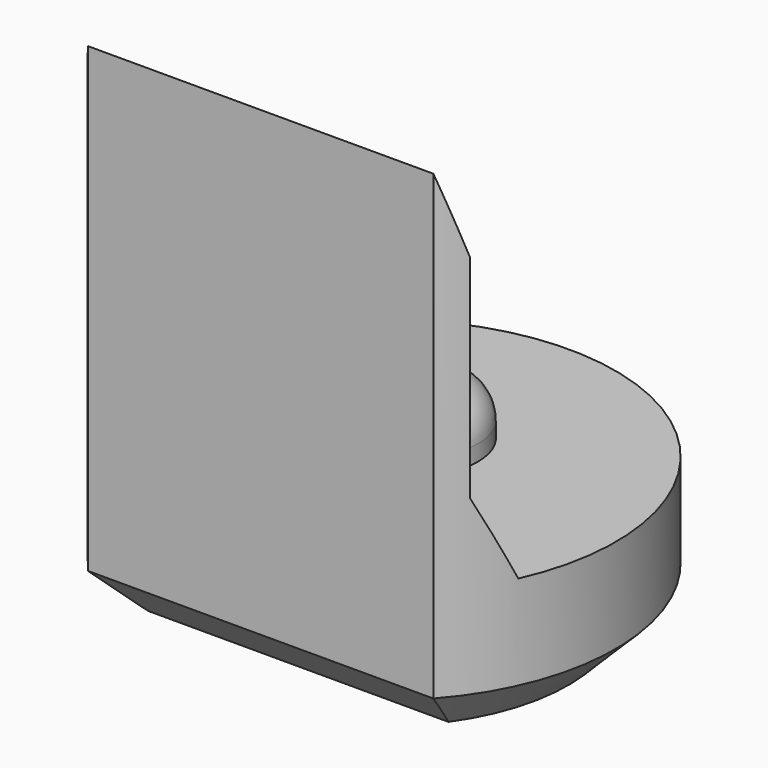
from build123d import *

# Parameters (mm, degrees)
PAD003_DEPTH         = 6.5
POCKET004_DEPTH      = 2.951
POCKET004_DEPTH_BACK = 2.951
SKETCH013_R          = 0.8
PAD006_DEPTH         = 0.7
FILLET_R             = 0.5
CHAMFER004_SIZE      = 0.6


with BuildPart() as part:
    # Sketch004 → Pad003 (new body)
    with BuildSketch(Plane.XY):
        with BuildLine():
            ThreePointArc((2.2, -1.9653244007), (0, 2.95), (-2.2, -1.9653244007))
            Line((-2.2, -1.9653244007), (2.2, -1.9653244007))
        make_face()
    extrude(amount=PAD003_DEPTH)

    # Sketch014 → Pocket004 (cut, two sides)
    with BuildSketch(Plane.YZ) as pocket004_sk:
        Polygon((-1.97, 6.5), (-1.67, 5.5), (-1.67, 2.8), (-1.22, 1.8), (4, 1.8), (4, 6.5), align=None)
    extrude(amount=-POCKET004_DEPTH, mode=Mode.SUBTRACT)
    extrude(pocket004_sk.sketch, amount=POCKET004_DEPTH_BACK, mode=Mode.SUBTRACT)

    # Sketch013 (on Face7 of Pocket004) → Pad006 (join)
    with BuildSketch(Plane.XY.offset(1.8)):
        with Locations((0, 0.5)):
            Circle(SKETCH013_R)
    extrude(amount=PAD006_DEPTH)

    # Fillet
    fillet_edges = [part.edges().sort_by_distance(p)[0] for p in [
        (-0.8, 0.5, 2.5),
    ]]
    fillet(fillet_edges, radius=FILLET_R)

    # Chamfer004
    chamfer004_edges = [part.edges().sort_by_distance(p)[0] for p in [
        (0, 2.95, 0),
        (0, -1.965324, 0),
    ]]
    chamfer(chamfer004_edges, length=CHAMFER004_SIZE)


with BuildPart() as part_1:
    # Body028 placement: moved
    add(part.part.moved(Location((0, 54, 0))))


solid = part_1.part
